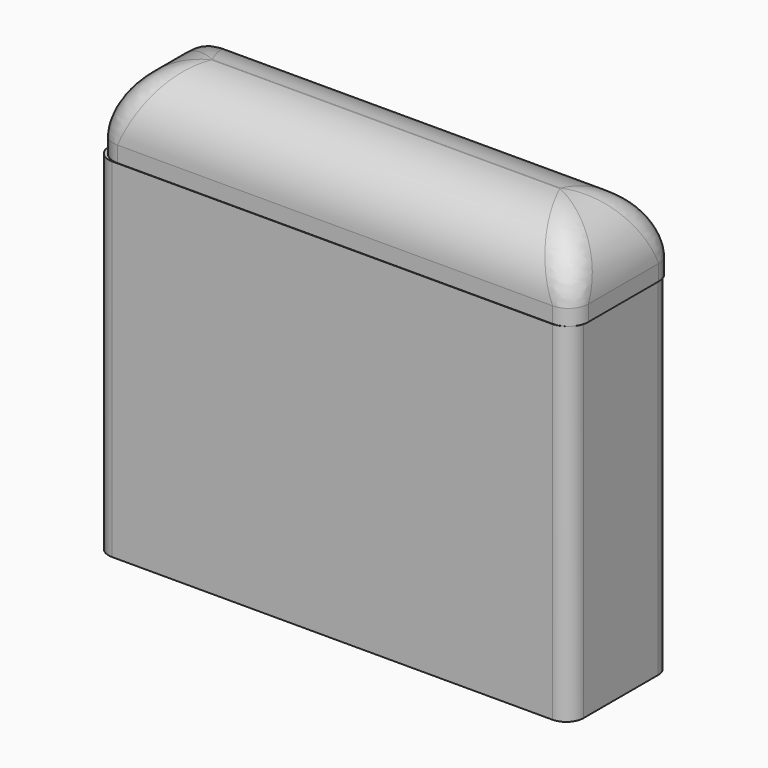
from build123d import *

# Parameters (mm, degrees)
PAD_DEPTH    = 22
PAD001_DEPTH = 5
FILLET_R     = 4


with BuildPart() as part:
    # Sketch → Pad (new body)
    with BuildSketch(Plane.XY):
        with BuildLine():
            Line((-15.033203, -2.996852), (-15.033203, 2.868629))
            ThreePointArc((-13.935943, 3.965889), (-14.711823, 3.644509), (-15.033203, 2.868629))
            Line((-13.935943, 3.965889), (13.869538, 3.965889))
            ThreePointArc((14.966797, 2.868629), (14.645418, 3.644509), (13.869538, 3.965889))
            Line((14.966797, 2.868629), (14.966797, -2.996852))
            ThreePointArc((13.869538, -4.094111), (14.645418, -3.772731), (14.966797, -2.996852))
            Line((13.869538, -4.094111), (-13.935943, -4.094111))
            ThreePointArc((-15.033203, -2.996852), (-14.711823, -3.772731), (-13.935943, -4.094111))
        make_face()
        with BuildLine():
            Line((-11.363415, -0.882751), (-11.363415, 0.807684))
            ThreePointArc((-11.083632, 1.087466), (-11.281469, 1.00552), (-11.363415, 0.807684))
            Line((-11.083632, 1.087466), (11.126802, 1.087466))
            ThreePointArc((11.406585, 0.807684), (11.324638, 1.00552), (11.126802, 1.087466))
            Line((11.406585, 0.807684), (11.406585, -0.882751))
            ThreePointArc((11.126802, -1.162534), (11.324638, -1.080587), (11.406585, -0.882751))
            Line((11.126802, -1.162534), (-11.083632, -1.162534))
            ThreePointArc((-11.363415, -0.882751), (-11.281469, -1.080587), (-11.083632, -1.162534))
        make_face(mode=Mode.SUBTRACT)
    extrude(amount=PAD_DEPTH)

    # Sketch001 (on Face18 of Pad) → Pad001 (join)
    with BuildSketch(Plane.XY.offset(22)):
        with BuildLine():
            Line((15.12127, -2.809895), (15.12127, 2.736811))
            ThreePointArc((15.12127, 2.736811), (14.753207, 3.625395), (13.864623, 3.993458))
            Line((13.864623, 3.993458), (-13.622083, 3.993458))
            ThreePointArc((-13.622083, 3.993458), (-14.510667, 3.625395), (-14.87873, 2.736811))
            Line((-14.87873, 2.736811), (-14.87873, -2.809895))
            ThreePointArc((-14.87873, -2.809895), (-14.510667, -3.698479), (-13.622083, -4.066542))
            Line((-13.622083, -4.066542), (13.864623, -4.066542))
            ThreePointArc((13.864623, -4.066542), (14.753207, -3.698479), (15.12127, -2.809895))
        make_face()
    extrude(amount=PAD001_DEPTH)

    # Fillet
    fillet_edges = [part.edges().sort_by_distance(p)[0] for p in [
        (15.12127, -0.036542, 27),
        (14.753207, 3.625395, 27),
        (0.12127, 3.993458, 27),
        (-14.510667, 3.625395, 27),
        (-14.87873, -0.036542, 27),
        (-14.510667, -3.698479, 27),
        (0.12127, -4.066542, 27),
        (14.753207, -3.698479, 27),
    ]]
    fillet(fillet_edges, radius=FILLET_R)


solid = part.part
